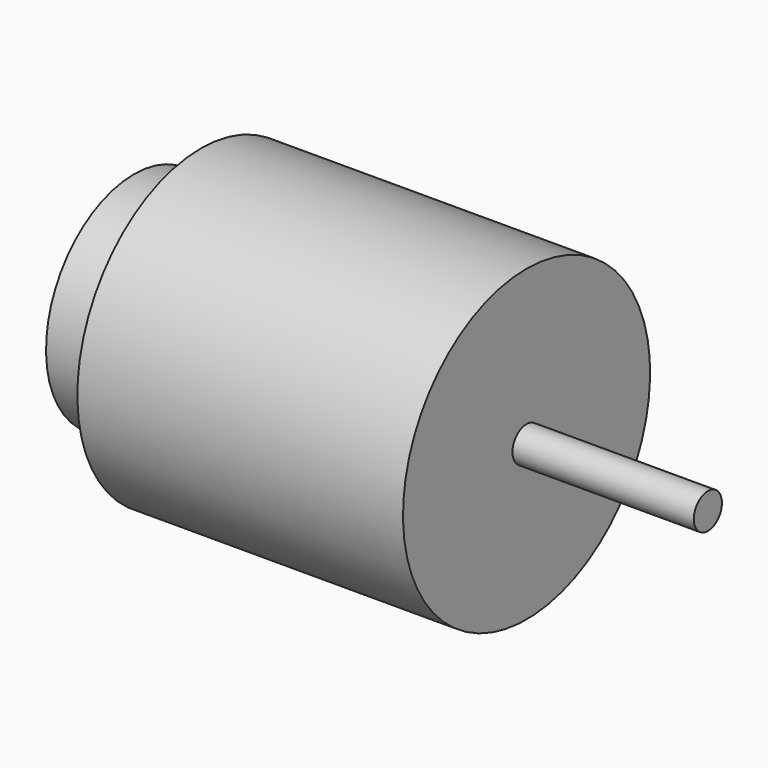
from build123d import *

# Parameters (mm, degrees)
F0_W   = 7.6
F0_H   = 12.5
F0_W_2 = 20.6
F0_H_2 = 2


with BuildPart() as f1:
    # F0 (on Front) → F1 (revolve)
    with BuildSketch(Plane.XZ):
        with Locations((-40.8, 6.25)):
            Rectangle(F0_W, F0_H)
        Polygon((0, 17.55), (-37, 17.55), (-37, 12.5), (-37, 0), (0, 0), (0, 2), align=None)
        with Locations((10.3, 1)):
            Rectangle(F0_W_2, F0_H_2)
    revolve(axis=Axis((-22.3, 0, 0), (-1, 0, 0)))


solid = f1.part
